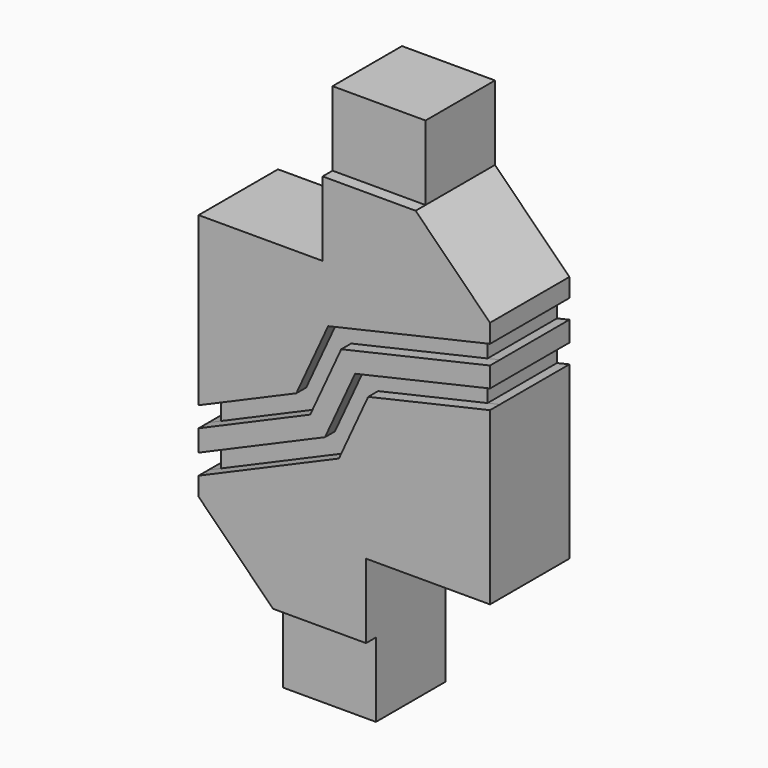
from build123d import *

# Parameters (mm, degrees)
F0_W     = 23.5
F0_H     = 44
F1_DEPTH = 8
F2_W     = 10
F2_H     = 12
F3_DEPTH = 8
F4_W     = 7.5
F4_H     = 6
F5_DEPTH = 1
F7_DEPTH = 7


with BuildPart() as f1:
    # F0 (on Front) → F1 (new body)
    with BuildSketch(Plane.XZ):
        Rectangle(F0_W, F0_H)
    extrude(amount=F1_DEPTH)

    # F2 (on face) → F3 (cut, through all)
    with BuildSketch(Plane.XZ.offset(8)):
        with Locations((-6.75, 16)):
            Rectangle(F2_W, F2_H)
        with Locations((6.75, -16)):
            Rectangle(F2_W, F2_H)
        Polygon((11.75, 16), (11.75, 22), (5.75, 22), (5.75, 16), (11.75, 10), align=None)
        Polygon((-11.75, -16), (-11.75, -22), (-5.75, -22), (-5.75, -16), (-11.75, -10), align=None)
    extrude(amount=-F3_DEPTH, mode=Mode.SUBTRACT)

    # F4 (on face) → F5 (cut)
    with BuildSketch(Plane.XZ.offset(8)):
        Polygon((-0.25, 4.21563), (11.75, 6.961239), (11.75, 8.5), (-1.305453, 5.512903), (-3.873864, -0.090707), (-11.75, -3.5), (-11.75, -5.134498), (-2.75, -1.238726), align=None)
        Polygon((0.86777, 2.841763), (-1.55978, -2.454526), (-11.75, -6.865502), (-11.75, -8.5), (-0.435916, -3.602545), (1.923223, 1.54449), (11.75, 3.792863), (11.75, 5.331624), align=None)
        with Locations((2, 19)):
            Rectangle(F4_W, F4_H)
        with Locations((-2, -19)):
            Rectangle(F4_W, F4_H)
    extrude(amount=-F5_DEPTH, mode=Mode.SUBTRACT)

    # F6 (on face) → F7 (cut, through all)
    with BuildSketch(Plane.XZ.offset(7)):
        Polygon((11.75, 6.961239), (11.75, 8.5), (10.75, 8.271199), (10.75, 6.732438), align=None)
        Polygon((11.75, 3.792863), (11.75, 5.331624), (10.75, 5.102824), (10.75, 3.564062), align=None)
        Polygon((-11.75, -3.5), (-11.75, -5.134498), (-10.75, -4.701635), (-10.75, -3.067136), align=None)
        Polygon((-11.75, -6.865502), (-11.75, -8.5), (-10.75, -8.067136), (-10.75, -6.432638), align=None)
    extrude(amount=-F7_DEPTH, mode=Mode.SUBTRACT)


solid = f1.part
